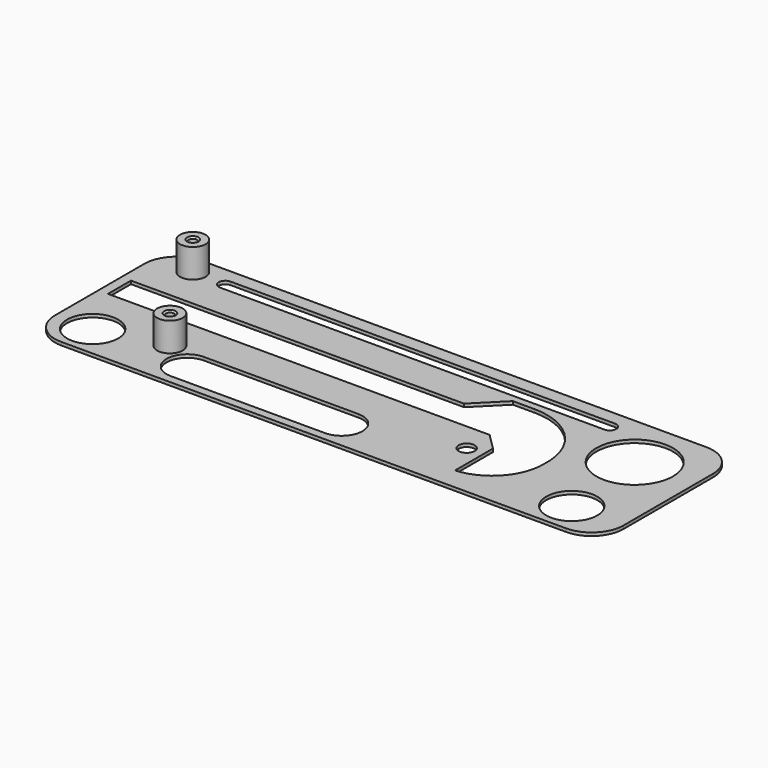
from build123d import *

# Parameters (mm, degrees)
SKETCH001_W   = 178
SKETCH001_H   = 55
SKETCH001_R   = 2.5
SKETCH001_R_2 = 8
SKETCH001_R_3 = 12.004096
PAD_DEPTH     = 1
SKETCH003_R   = 4
PAD001_DEPTH  = 9
SKETCH004_R   = 1.3
POCKET_DEPTH  = 9
FILLET_R      = 10
FILLET001_R   = 10
CHAMFER_SIZE  = 0.5


with BuildPart() as part:
    # Sketch001 → Pad (new body)
    with BuildSketch(Plane.XY):
        with Locations((-27.95005, 210.084131)):
            Rectangle(SKETCH001_W, SKETCH001_H)
        with Locations((5.54995, 200.560838)):
            Circle(SKETCH001_R, mode=Mode.SUBTRACT)
        with Locations((-105.249172, 192.692063)):
            Circle(SKETCH001_R_2, mode=Mode.SUBTRACT)
        with Locations((44.750828, 192.692063)):
            Circle(SKETCH001_R_2, mode=Mode.SUBTRACT)
        with Locations((42.270485, 220.407623)):
            Circle(SKETCH001_R_3, mode=Mode.SUBTRACT)
        with BuildLine():
            ThreePointArc((25.54995, 206.028969), (20.061493, 220.835101), (5.54995, 227.060838))
            Line((-1.19441, 227.060838), (5.54995, 227.060838))
            Line((-9.694456, 218.560838), (-1.19441, 227.060838))
            Line((-113.95005, 218.561117), (-9.694456, 218.560838))
            Line((-113.95005, 218.561117), (-113.95005, 209.560838))
            Line((-113.95005, 209.560838), (-9.618024, 209.560838))
            Line((-9.618024, 209.560838), (5.54995, 209.560838))
            Line((5.54995, 209.560838), (10.697892, 204.412896))
            Line((10.697892, 189.560838), (10.697892, 204.412896))
            ThreePointArc((10.697892, 189.560838), (21.441031, 194.803313), (25.54995, 206.028969))
        make_face(mode=Mode.SUBTRACT)
        with BuildLine():
            ThreePointArc((-74.793427, 198.14003), (-81.282837, 191.65062), (-74.793427, 185.16121))
            Line((-74.793427, 185.16121), (-26.440948, 185.16121))
            ThreePointArc((-26.440948, 185.16121), (-19.951538, 191.65062), (-26.440948, 198.14003))
            Line((-74.793427, 198.14003), (-26.440948, 198.14003))
        make_face(mode=Mode.SUBTRACT)
        with BuildLine():
            ThreePointArc((-94.612823, 233.364261), (-96.6561, 231.320984), (-94.612823, 229.277707))
            Line((-94.612823, 229.277707), (25.728859, 229.277707))
            ThreePointArc((25.728859, 229.277707), (27.772136, 231.320984), (25.728859, 233.364261))
            Line((-94.612823, 233.364261), (25.728859, 233.364261))
        make_face(mode=Mode.SUBTRACT)
    extrude(amount=PAD_DEPTH)

    # Sketch003 (on Face28 of Pad) → Pad001 (join)
    with BuildSketch(Plane.XY.offset(1)):
        with Locations((-84.923561, 197.527756)):
            Circle(SKETCH003_R)
        with Locations((-104.933395, 231.507965)):
            Circle(SKETCH003_R)
    extrude(amount=PAD001_DEPTH)

    # Sketch004 (on Face31 of Pad001) → Pocket (cut)
    with BuildSketch(Plane.XY.offset(10)):
        with Locations((-84.917816, 197.526398)):
            Circle(SKETCH004_R)
        with Locations((-104.937256, 231.505722)):
            Circle(SKETCH004_R)
    extrude(amount=-POCKET_DEPTH, mode=Mode.SUBTRACT)

    # Fillet
    fillet_edges = [part.edges().sort_by_distance(p)[0] for p in [
        (-116.95005, 182.584131, 0.5),
        (61.04995, 182.584131, 0.5),
    ]]
    fillet(fillet_edges, radius=FILLET_R)

    # Fillet001
    fillet001_edges = [part.edges().sort_by_distance(p)[0] for p in [
        (61.04995, 237.584131, 0.5),
        (-116.95005, 237.584131, 0.5),
    ]]
    fillet(fillet001_edges, radius=FILLET001_R)

    # Chamfer
    chamfer_edges = [part.edges().sort_by_distance(p)[0] for p in [
        (-106.237256, 231.505722, 10),
        (-86.217816, 197.526398, 10),
    ]]
    chamfer(chamfer_edges, length=CHAMFER_SIZE)


solid = part.part
